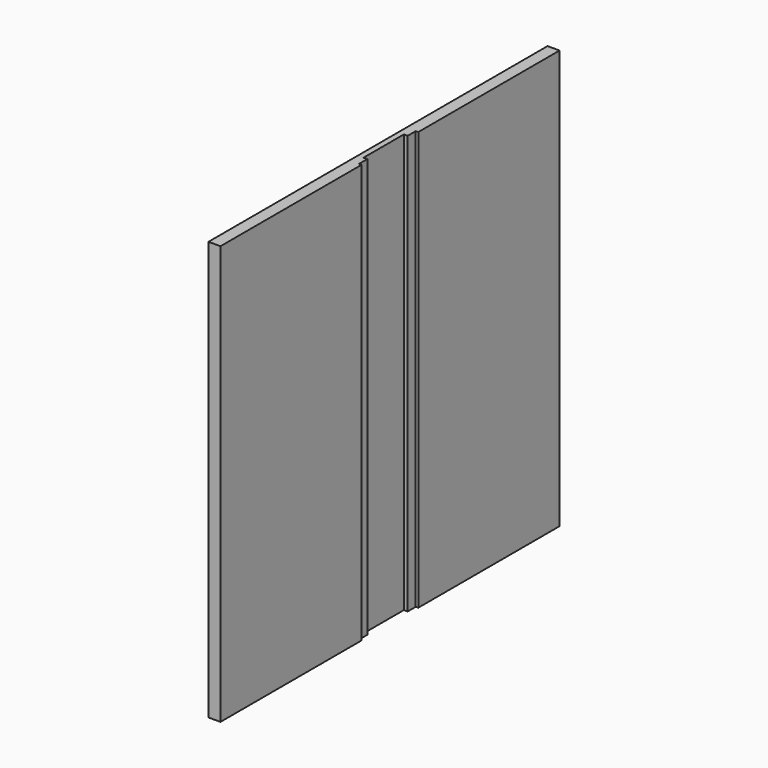
from build123d import *

# Parameters (mm, degrees)
F0_W     = 1066.8
F0_H     = 1054.1
F1_DEPTH = 30.226
F2_W     = 177.8
F2_H     = 1054.1
F3_DEPTH = 6.35
F4_W     = 127
F4_H     = 1054.1
F5_DEPTH = 9.525


with BuildPart() as f1:
    # F0 (on Right) → F1 (new body)
    with BuildSketch(Plane.YZ):
        Rectangle(F0_W, F0_H)
    extrude(amount=F1_DEPTH)

    # F2 (on face) → F3 (cut)
    with BuildSketch(Plane.YZ.offset(30.226)):
        Rectangle(F2_W, F2_H)
    extrude(amount=-F3_DEPTH, mode=Mode.SUBTRACT)

    # F4 (on face) → F5 (cut)
    with BuildSketch(Plane.YZ.offset(23.876)):
        Rectangle(F4_W, F4_H)
    extrude(amount=-F5_DEPTH, mode=Mode.SUBTRACT)


solid = f1.part
